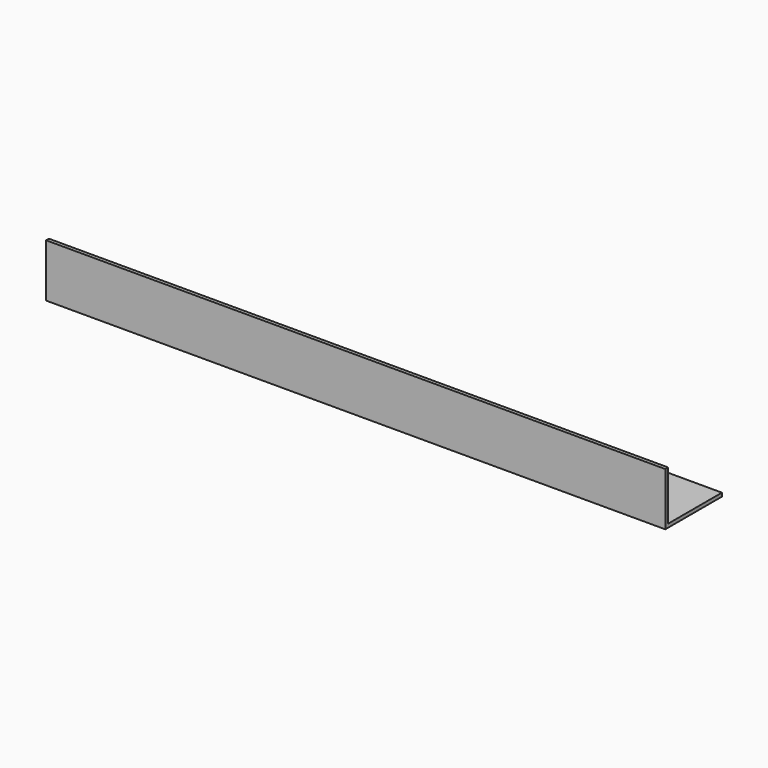
from build123d import *

# Parameters (mm, degrees)
F1_DEPTH = 350
F2_R     = 5.5
F3_DEPTH = 25


with BuildPart() as f1:
    # F0 (on Right) → F1 (new body)
    with BuildSketch(Plane.YZ):
        Polygon((0, 30), (0, 0), (40, 0), (40, 2), (2, 2), (2, 30), align=None)
    extrude(amount=F1_DEPTH)

    # F2 (on face) → F3 (cut)
    with BuildSketch(Plane.XY.offset(2)):
        with Locations((20, 21)):
            Circle(F2_R)
        with Locations((62, 20)):
            Circle(F2_R)
    extrude(amount=-F3_DEPTH, mode=Mode.SUBTRACT)


solid = f1.part
